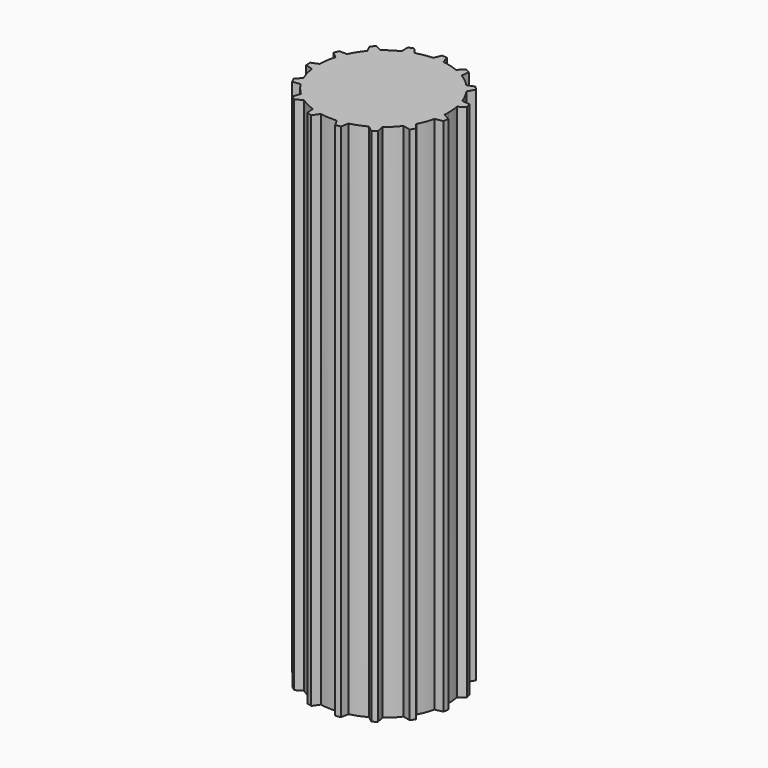
from build123d import *

# Parameters (mm, degrees)
F1_DEPTH = 200


with BuildPart() as f1:
    # F0 (on Top) → F1 (new body)
    with BuildSketch(Plane.XY):
        with BuildLine():
            ThreePointArc((24.936144, -1.785704), (24.984031, -0.893422), (25, 0))
            ThreePointArc((25, 0), (24.892976, 2.310787), (24.572821, 4.601789))
            ThreePointArc((24.572821, 4.601789), (24.119052, 6.578093), (23.506612, 8.511122))
            ThreePointArc((23.506612, 8.511122), (22.224331, 11.448979), (20.576673, 14.198611))
            ThreePointArc((20.576673, 14.198611), (19.358299, 15.81949), (18.012573, 17.336297))
            ThreePointArc((18.012573, 17.336297), (15.646217, 19.498613), (13.022631, 21.340363))
            ThreePointArc((13.022631, 21.340363), (11.25032, 22.325553), (9.403997, 23.163869))
            ThreePointArc((9.403997, 23.163869), (6.36273, 24.176759), (3.216857, 24.792173))
            ThreePointArc((3.216857, 24.792173), (1.197059, 24.971325), (-0.830616, 24.986198))
            ThreePointArc((-0.830616, 24.986198), (-4.02093, 24.674524), (-7.14514, 23.957191))
            ThreePointArc((-7.14514, 23.957191), (-9.063185, 23.299328), (-10.921607, 22.488186))
            ThreePointArc((-10.921607, 22.488186), (-13.709336, 20.905839), (-16.271677, 18.979793))
            ThreePointArc((-16.271677, 18.979793), (-17.756322, 17.598665), (-19.124154, 16.101762))
            ThreePointArc((-19.124154, 16.101762), (-21.027272, 13.522345), (-22.584694, 10.720616))
            ThreePointArc((-22.584694, 10.720616), (-23.37923, 8.855034), (-24.01996, 6.931197))
            ThreePointArc((-24.01996, 6.931197), (-24.709402, 3.800715), (-24.992612, 0.607747))
            ThreePointArc((-24.992612, 0.607747), (-24.959656, -1.419713), (-24.762498, -3.437834))
            ThreePointArc((-24.762498, -3.437834), (-24.119052, -6.578093), (-23.07908, -9.610206))
            ThreePointArc((-23.07908, -9.610206), (-22.224331, -11.448979), (-21.223374, -13.212433))
            ThreePointArc((-21.223374, -13.212433), (-19.358299, -15.81949), (-17.174966, -18.166468))
            ThreePointArc((-17.174966, -18.166468), (-15.646217, -19.498613), (-14.014536, -20.702482))
            ThreePointArc((-14.014536, -20.702482), (-11.25032, -22.325553), (-8.301144, -23.581582))
            ThreePointArc((-8.301144, -23.581582), (-6.36273, -24.176759), (-4.382458, -24.612884))
            ThreePointArc((-4.382458, -24.612884), (-1.197059, -24.971325), (2.008021, -24.919227))
            ThreePointArc((2.008021, -24.919227), (4.02093, -24.674524), (6.007387, -24.267495))
            ThreePointArc((6.007387, -24.267495), (9.063185, -23.299328), (11.969981, -21.94811))
            ThreePointArc((11.969981, -21.94811), (13.709336, -20.905839), (15.358501, -19.726035))
            ThreePointArc((15.358501, -19.726035), (17.756322, -17.598665), (19.862223, -15.181967))
            ThreePointArc((19.862223, -15.181967), (21.027272, -13.522345), (22.05399, -11.773765))
            ThreePointArc((22.05399, -11.773765), (23.37923, -8.855034), (24.320105, -5.790723))
            ThreePointArc((24.320105, -5.790723), (24.709402, -3.800715), (24.936144, -1.785704))
        make_face()
        with BuildLine():
            ThreePointArc((-24.762498, -3.437834), (-24.959656, -1.419713), (-24.992612, 0.607747))
            Line((-24.992612, 0.607747), (-27.748872, -0.576748))
            Line((-27.748872, -0.576748), (-27.635295, -2.573521))
            Line((-27.635295, -2.573521), (-24.762498, -3.437834))
        make_face()
        with BuildLine():
            ThreePointArc((23.506612, 8.511122), (24.119052, 6.578093), (24.572821, 4.601789))
            Line((24.572821, 4.601789), (27.02258, 6.33346))
            Line((27.02258, 6.33346), (26.496332, 8.262984))
            Line((26.496332, 8.262984), (23.506612, 8.511122))
        make_face()
        with BuildLine():
            ThreePointArc((18.012573, 17.336297), (19.358299, 15.81949), (20.576673, 14.198611))
            Line((20.576673, 14.198611), (22.110305, 16.776977))
            Line((22.110305, 16.776977), (20.844745, 18.325641))
            Line((20.844745, 18.325641), (18.012573, 17.336297))
        make_face()
        with BuildLine():
            ThreePointArc((9.403997, 23.163869), (11.25032, 22.325553), (13.022631, 21.340363))
            Line((13.022631, 21.340363), (13.374957, 24.319602))
            Line((13.374957, 24.319602), (11.588913, 25.219628))
            Line((11.588913, 25.219628), (9.403997, 23.163869))
        make_face()
        with BuildLine():
            ThreePointArc((-0.830616, 24.986198), (1.197059, 24.971325), (3.216857, 24.792173))
            Line((3.216857, 24.792173), (2.326958, 27.657147))
            Line((2.326958, 27.657147), (0.329252, 27.752912))
            Line((0.329252, 27.752912), (-0.830616, 24.986198))
        make_face()
        with BuildLine():
            ThreePointArc((-10.921607, 22.488186), (-9.063185, 23.299328), (-7.14514, 23.957191))
            Line((-7.14514, 23.957191), (-9.123393, 26.21252))
            Line((-9.123393, 26.21252), (-10.98734, 25.487465))
            Line((-10.98734, 25.487465), (-10.921607, 22.488186))
        make_face()
        with BuildLine():
            ThreePointArc((-19.124154, 16.101762), (-17.756322, 17.598665), (-16.271677, 18.979793))
            Line((-16.271677, 18.979793), (-18.996227, 20.235511))
            Line((-18.996227, 20.235511), (-20.40412, 18.815005))
            Line((-20.40412, 18.815005), (-19.124154, 16.101762))
        make_face()
        with BuildLine():
            Line((16.046382, -22.646107), (15.358501, -19.726035))
            ThreePointArc((15.358501, -19.726035), (13.709336, -20.905839), (11.969981, -21.94811))
            Line((11.969981, -21.94811), (14.373915, -23.742854))
            Line((14.373915, -23.742854), (16.046382, -22.646107))
        make_face()
        with BuildLine():
            Line((23.870101, -14.161597), (22.05399, -11.773765))
            ThreePointArc((22.05399, -11.773765), (21.027272, -13.522345), (19.862223, -15.181967))
            Line((19.862223, -15.181967), (22.788313, -15.843778))
            Line((22.788313, -15.843778), (23.870101, -14.161597))
        make_face()
        with BuildLine():
            Line((27.566462, -3.228418), (24.936144, -1.785704))
            ThreePointArc((24.936144, -1.785704), (24.709402, -3.800715), (24.320105, -5.790723))
            Line((24.320105, -5.790723), (27.262405, -5.20517))
            Line((27.262405, -5.20517), (27.566462, -3.228418))
        make_face()
        with BuildLine():
            Line((5.448098, -27.2149), (6.007387, -24.267495))
            ThreePointArc((6.007387, -24.267495), (4.02093, -24.674524), (2.008021, -24.919227))
            Line((2.008021, -24.919227), (3.474136, -27.536574))
            Line((3.474136, -27.536574), (5.448098, -27.2149))
        make_face()
        with BuildLine():
            Line((-6.092212, -27.077989), (-4.382458, -24.612884))
            ThreePointArc((-4.382458, -24.612884), (-6.36273, -24.176759), (-8.301144, -23.581582))
            Line((-8.301144, -23.581582), (-8.026353, -26.56897))
            Line((-8.026353, -26.56897), (-6.092212, -27.077989))
        make_face()
        with BuildLine():
            Line((-16.579123, -22.259048), (-14.014536, -20.702482))
            ThreePointArc((-14.014536, -20.702482), (-15.646217, -19.498613), (-17.174966, -18.166468))
            Line((-17.174966, -18.166468), (-18.139012, -21.007351))
            Line((-18.139012, -21.007351), (-16.579123, -22.259048))
        make_face()
        with BuildLine():
            Line((-24.199353, -13.591315), (-21.223374, -13.212433))
            ThreePointArc((-21.223374, -13.212433), (-22.224331, -11.448979), (-23.07908, -9.610206))
            Line((-23.07908, -9.610206), (-25.115271, -11.813369))
            Line((-25.115271, -11.813369), (-24.199353, -13.591315))
        make_face()
        with BuildLine():
            ThreePointArc((-24.01996, 6.931197), (-23.37923, 8.855034), (-22.584694, 10.720616))
            Line((-22.584694, 10.720616), (-25.584441, 10.759597))
            Line((-25.584441, 10.759597), (-26.292843, 8.889259))
            Line((-26.292843, 8.889259), (-24.01996, 6.931197))
        make_face()
    extrude(amount=F1_DEPTH)


solid = f1.part
